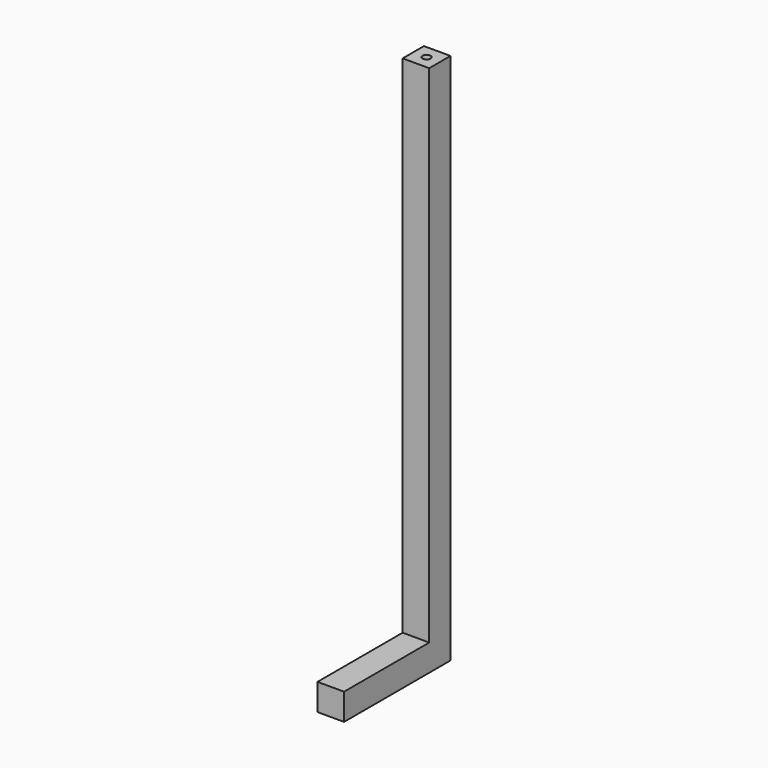
from build123d import *

# Parameters (mm, degrees)
F0_W      = 6.35
F0_H      = 203.5342199714
F1_DEPTH  = 101.6
F2_W      = 101.6
F2_H      = 6.35
F3_DEPTH  = 25.4
F5_W      = 12.7
F5_H      = 12.7
F6_DEPTH  = 254
F7_R      = 1.905
F8_DEPTH  = 25.4
F9_W      = 12.7
F9_H      = 12.7
F10_DEPTH = 50.8


with BuildPart() as f1:
    # F0 (on Right) → F1 (new body)
    with BuildSketch(Plane.YZ):
        Polygon((-3.0652988178, -75.2811529749), (-98.3152988178, -75.2811529749), (-98.3152988178, -81.6311529749), (3.2847011822, -81.6311529749), (3.2847011822, -75.2811529749), align=None)
        with Locations((0.1097011822, 26.4859570108)):
            Rectangle(F0_W, F0_H)
    extrude(amount=F1_DEPTH)

    # F2 (on face) → F3 (join)
    with BuildSketch(Plane.XY.offset(-75.2811529749)):
        with Locations((50.8, -95.1402988178)):
            Rectangle(F2_W, F2_H)
    extrude(amount=F3_DEPTH)


with BuildPart() as f6:
    # F5 (on Top) → F6 (new body)
    with BuildSketch(Plane.XY):
        with Locations((-32.7810319141, 16.882541026)):
            Rectangle(F5_W, F5_H)
    extrude(amount=F6_DEPTH)

    # F7 (on face) → F8 (cut)
    with BuildSketch(Plane.XY.offset(254)):
        with Locations((-32.7810319141, 16.882541026)):
            Circle(F7_R)
    extrude(amount=-F8_DEPTH, mode=Mode.SUBTRACT)

    # F9 (on face) → F10 (join)
    with BuildSketch(Plane.XZ.offset(-10.532541026)):
        with Locations((-32.7810319141, 6.35)):
            Rectangle(F9_W, F9_H)
    extrude(amount=F10_DEPTH)


solid = f6.part
